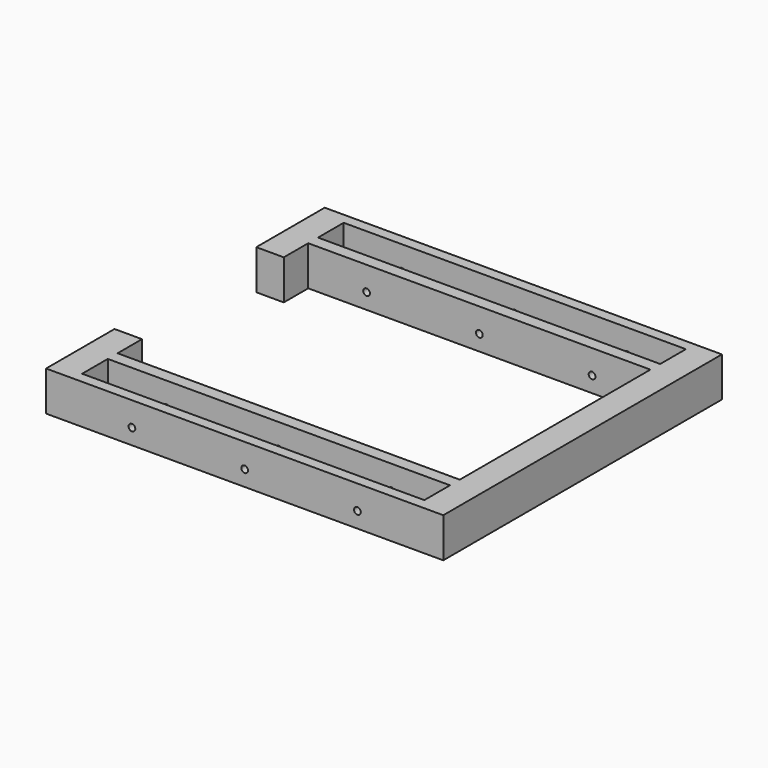
from build123d import *

# Parameters (mm, degrees)
F0_W      = 825.5
F0_H      = 723.9
F1_DEPTH  = 82.55
F2_W      = 711.2
F2_H      = 495.3
F3_DEPTH  = 82.55
F4_W      = 711.2
F4_H      = 66.675
F5_DEPTH  = 82.55
F6_W      = 711.2
F6_H      = 66.675
F7_DEPTH  = 82.55
F8_W      = 368.3
F8_H      = 82.55
F9_DEPTH  = 57.15
F10_R     = 6.985
F11_DEPTH = 762


with BuildPart() as f1:
    # F0 (on Top) → F1 (new body)
    with BuildSketch(Plane.XY):
        Rectangle(F0_W, F0_H)
    extrude(amount=F1_DEPTH)

    # F2 (on face) → F3 (cut)
    with BuildSketch(Plane.XY.offset(82.55)):
        Rectangle(F2_W, F2_H)
    extrude(amount=-F3_DEPTH, mode=Mode.SUBTRACT)

    # F4 (on face) → F5 (cut)
    with BuildSketch(Plane.XY.offset(82.55)):
        with Locations((0, 306.3875)):
            Rectangle(F4_W, F4_H)
    extrude(amount=-F5_DEPTH, mode=Mode.SUBTRACT)

    # F6 (on face) → F7 (cut)
    with BuildSketch(Plane.XY.offset(82.55)):
        with Locations((0, -306.3875)):
            Rectangle(F6_W, F6_H)
    extrude(amount=-F7_DEPTH, mode=Mode.SUBTRACT)

    # F8 (on face) → F9 (cut)
    with BuildSketch(Plane(origin=(-412.75, 0, 0), x_dir=(0, -1, 0), z_dir=(-1, 0, 0))):
        with Locations((0, 41.275)):
            Rectangle(F8_W, F8_H)
    extrude(amount=-F9_DEPTH, mode=Mode.SUBTRACT)

    # F10 (on face) → F11 (cut)
    with BuildSketch(Plane.XZ.offset(361.95)):
        with Locations((0, 32.385)):
            Circle(F10_R)
        with Locations((234.315, 32.385)):
            Circle(F10_R)
        with Locations((-234.315, 32.385)):
            Circle(F10_R)
    extrude(amount=-F11_DEPTH, mode=Mode.SUBTRACT)


solid = f1.part
